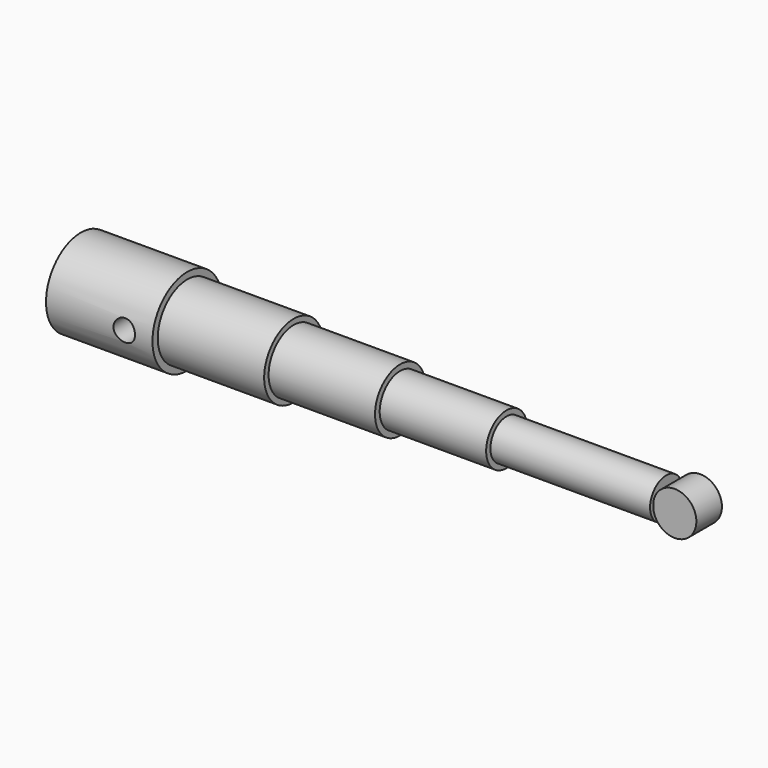
from build123d import *

# Parameters (mm, degrees)
F0_R      = 4.086054
F1_DEPTH  = 10
F2_R      = 3.46296
F3_DEPTH  = 10
F4_R      = 2.947818
F5_DEPTH  = 10
F6_R      = 2.396376
F7_DEPTH  = 10
F8_R      = 1.894125
F9_DEPTH  = 15
F10_R     = 2.032934
F11_DEPTH = 1.5
F13_DEPTH = 12.5


with BuildPart() as f1:
    # F0 (on Right) → F1 (new body)
    with BuildSketch(Plane.YZ):
        Circle(F0_R)
    extrude(amount=F1_DEPTH)

    # F2 (on face) → F3 (join)
    with BuildSketch(Plane.YZ.offset(10)):
        Circle(F2_R)
    extrude(amount=F3_DEPTH)

    # F4 (on face) → F5 (join)
    with BuildSketch(Plane.YZ.offset(20)):
        Circle(F4_R)
    extrude(amount=F5_DEPTH)

    # F6 (on face) → F7 (join)
    with BuildSketch(Plane.YZ.offset(30)):
        Circle(F6_R)
    extrude(amount=F7_DEPTH)

    # F8 (on face) → F9 (join)
    with BuildSketch(Plane.YZ.offset(40)):
        Circle(F8_R)
    extrude(amount=F9_DEPTH)

    # F10 (on Front) → F11 (join, symmetric)
    with BuildSketch(Plane.XZ):
        with Locations((57.003621, 0)):
            Circle(F10_R)
    extrude(amount=F11_DEPTH, both=True)

    # F12 (on Front) → F13 (cut, symmetric)
    with BuildSketch(Plane.XZ):
        with BuildLine():
            ThreePointArc((7.348375, 1.011325), (6.33705, 0), (7.348375, -1.011325))
            ThreePointArc((7.348375, -1.011325), (8.3597, 0), (7.348375, 1.011325))
        make_face()
    extrude(amount=F13_DEPTH, both=True, mode=Mode.SUBTRACT)


solid = f1.part
